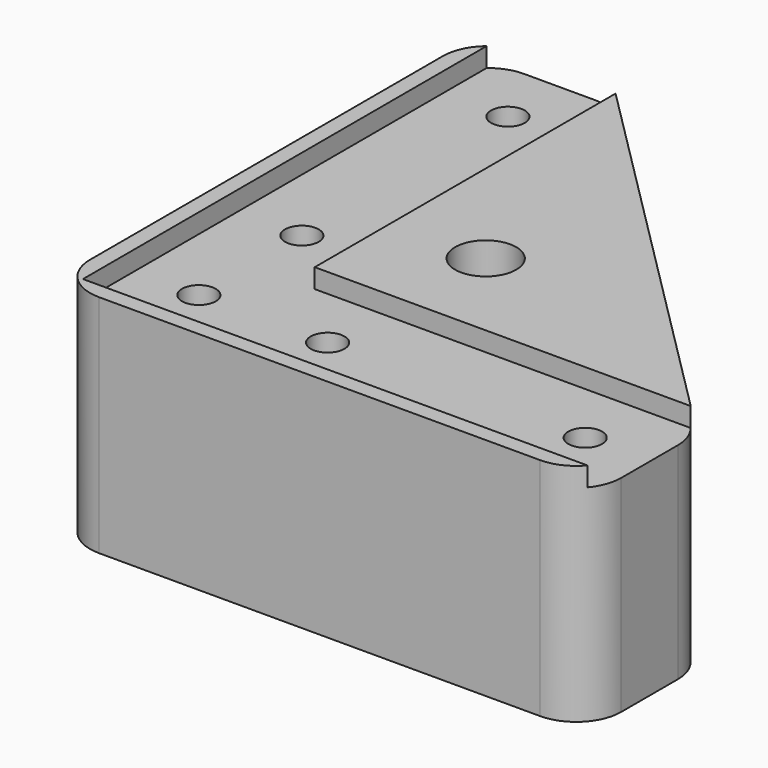
from build123d import *

# Parameters (mm, degrees)
SKETCH013_R          = 2.62
SKETCH013_R_2        = 2.65
PAD006_DEPTH         = 32
PAD006_DEPTH_BACK    = 3
SKETCH014_R          = 4.75
POCKET004_DEPTH      = 17
POCKET005_DEPTH      = 3.001
SKETCH109_R          = 4.75
POCKET055_DEPTH      = 22
POCKET055_DEPTH_BACK = 100


with BuildPart() as part:
    # Sketch013 → Pad006 (new body, two sides)
    with BuildSketch(Plane.XY) as pad006_sk:
        with BuildLine():
            Line((70, -5.5), (70, 5.5))
            ThreePointArc((70, 5.5), (69.467157, 8.178784), (67.949747, 10.449747))
            Line((67.949747, 10.449747), (10.449747, 67.949747))
            ThreePointArc((10.449747, 67.949747), (8.178784, 69.467157), (5.5, 70))
            Line((5.5, 70), (-5.5, 70))
            ThreePointArc((-5.5, 70), (-10.449747, 67.949747), (-12.5, 63))
            Line((-12.5, -5.5), (-12.5, 63))
            ThreePointArc((-12.5, -5.5), (-10.449747, -10.449747), (-5.5, -12.5))
            Line((-5.5, -12.5), (63, -12.5))
            ThreePointArc((63, -12.5), (67.949747, -10.449747), (70, -5.5))
        make_face()
        with Locations((20, 0)):
            Circle(SKETCH013_R, mode=Mode.SUBTRACT)
        with Locations((60, 0)):
            Circle(SKETCH013_R, mode=Mode.SUBTRACT)
        Circle(SKETCH013_R, mode=Mode.SUBTRACT)
        with Locations((0, 60)):
            Circle(SKETCH013_R, mode=Mode.SUBTRACT)
        with Locations((0, 20)):
            Circle(SKETCH013_R, mode=Mode.SUBTRACT)
        with Locations((24.748737, 24.748737)):
            Circle(SKETCH013_R_2, mode=Mode.SUBTRACT)
    extrude(amount=-PAD006_DEPTH)
    extrude(pad006_sk.sketch, amount=PAD006_DEPTH_BACK)

    # Sketch014 → Pocket004 (cut)
    with BuildSketch(Plane.XY.offset(-32)):
        with Locations((0, 60)):
            Circle(SKETCH014_R)
        Circle(SKETCH014_R)
        with Locations((20, 0)):
            Circle(SKETCH014_R)
        with Locations((60, 0)):
            Circle(SKETCH014_R)
        with Locations((0, 20)):
            Circle(SKETCH014_R)
    extrude(amount=POCKET004_DEPTH, mode=Mode.SUBTRACT)

    # Sketch016 → Pocket005 (cut, through all)
    with BuildSketch(Plane.XY):
        Polygon((10, 100), (10, 10), (140, 10), (140, -10), (-10, -10), (-10, 100), align=None)
    extrude(amount=POCKET005_DEPTH, mode=Mode.SUBTRACT)

    # Sketch109 → Pocket055 (cut, two sides)
    with BuildSketch(Plane.XY) as pocket055_sk:
        with Locations((24.748737, 24.748737)):
            Circle(SKETCH109_R)
    extrude(amount=-POCKET055_DEPTH, mode=Mode.SUBTRACT)
    extrude(pocket055_sk.sketch, amount=POCKET055_DEPTH_BACK, mode=Mode.SUBTRACT)


solid = part.part
